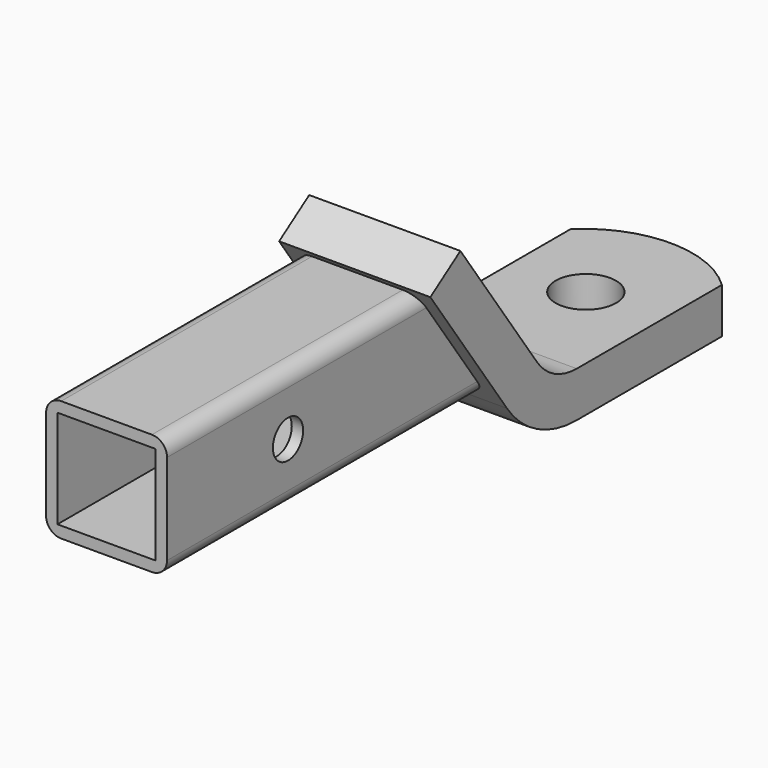
from build123d import *

# Parameters (mm, degrees)
F2_DEPTH      = 31.75
F0_W          = 50.8
F0_H          = 50.8
F0_W_2        = 41.2496
F0_H_2        = 41.275
F5_R          = 7.9375
F6_DEPTH      = 31.751
F6_DEPTH_BACK = 31.751
F7_R          = 12.7
F8_DEPTH      = 19.051
F10_DEPTH     = 19.05
F11_R         = 6.35


with BuildPart() as f2:
    # F1 (on Right) → F2 (new body, symmetric)
    with BuildSketch(Plane.YZ):
        with BuildLine():
            Line((186.1143140791, -19.1177702936), (146.05, 38.1))
            Line((146.05, 38.1), (130.2778550255, 27.4122959508))
            Line((130.2778550255, 27.4122959508), (170.5094676354, -30.0444014061))
            ThreePointArc((170.5094676354, -30.0444014061), (186.4455404184, -44.2064382145), (207.1429241575, -49.3191682742))
            Line((207.1429241575, -49.3191682742), (283.3413761776, -49.3191682742))
            Line((283.3413761776, -49.3191682742), (283.3413761776, -30.2691682742))
            Line((283.3413761776, -30.2691682742), (207.1413761776, -30.2691682742))
            ThreePointArc((207.1413761776, -30.2691682742), (195.2408402925, -27.3088038695), (186.1143140791, -19.1177702936))
        make_face()
    extrude(amount=F2_DEPTH, both=True)


with BuildPart() as f3:
    # F0 (on Front) → F3 (new body, up to the next surface of F2)
    with BuildSketch(Plane.XZ):
        Rectangle(F0_W, F0_H)
        Rectangle(F0_W_2, F0_H_2, mode=Mode.SUBTRACT)
    extrude(until=Until.NEXT, target=f2.part, dir=(0, 1, 0))

    # F5 (on Right) → F6 (cut, two sides)
    with BuildSketch(Plane.YZ) as f6_sk:
        with Locations((63.5, 0)):
            Circle(F5_R)
    extrude(amount=-F6_DEPTH, mode=Mode.SUBTRACT)
    extrude(f6_sk.sketch, amount=F6_DEPTH_BACK, mode=Mode.SUBTRACT)

    # F11
    f11_edges = [f3.edges().sort_by_distance(p)[0] for p in [
        (25.4, 65.84344, 25.4),
        (-25.4, 65.84344, 25.4),
        (-25.4, 83.628711, -25.4),
        (25.4, 83.628711, -25.4),
    ]]
    fillet(f11_edges, radius=F11_R)


with BuildPart() as f2_1:
    add(f2.part)

    # F7 (on face) → F8 (cut, through all)
    with BuildSketch(Plane.XY.offset(-30.2691682742)):
        with Locations((0, 251.5913761776)):
            Circle(F7_R)
    extrude(amount=-F8_DEPTH, mode=Mode.SUBTRACT)

    # F9 (on face) → F10 (join)
    with BuildSketch(Plane.XY.offset(-30.2691682742)):
        with BuildLine():
            Line((-31.75, 283.3413761776), (31.75, 283.3413761776))
            ThreePointArc((31.75, 283.3413761776), (0, 296.0413761776), (-31.75, 283.3413761776))
        make_face()
    extrude(amount=-F10_DEPTH)


solid = Compound([f3.part, f2_1.part])
